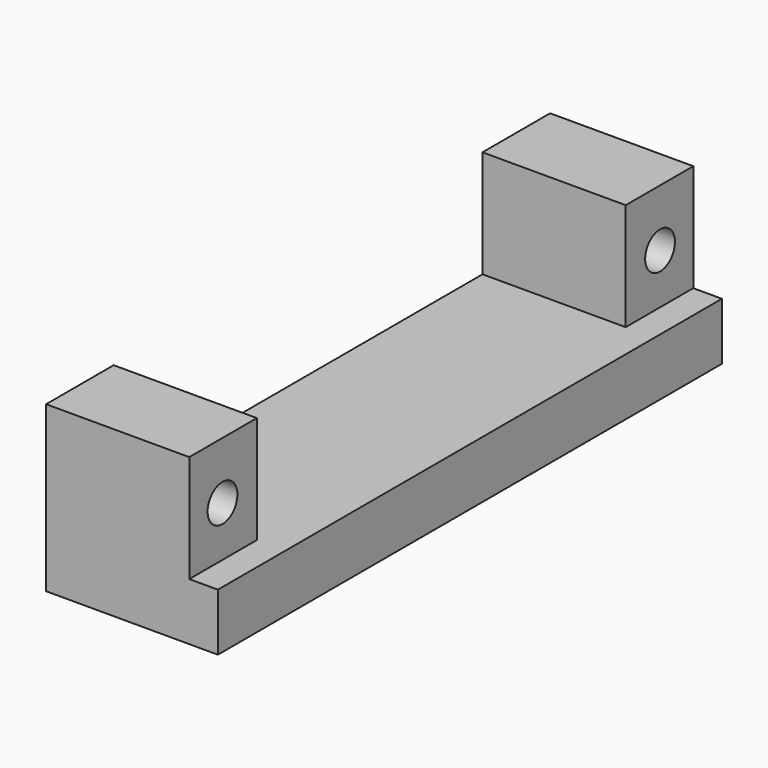
from build123d import *

# Parameters (mm, degrees)
F1_DEPTH = 7.62
F3_R     = 1.651
F4_DEPTH = 25.4
F5_R     = 3.175
F6_DEPTH = 3.81
F7_W     = 55.88
F7_H     = 9.525
F8_DEPTH = 2.54


with BuildPart() as f1:
    # F0 (on Right) → F1 (new body, symmetric)
    with BuildSketch(Plane.YZ):
        Polygon((0, 0), (0, -5.08), (27.94, -5.08), (27.94, 9.525), (20.447, 9.525), (20.447, 0), align=None)
    extrude(amount=F1_DEPTH, both=True)

    # F2: F1 across plane


with BuildPart() as f1_1:
    add(f1.part)
    add(f1.part.mirror(Plane.XZ))

    # F3 (on face) → F4 (cut)
    with BuildSketch(Plane.YZ.offset(7.62)):
        with Locations((-24.257, 4.445)):
            Circle(F3_R)
        with Locations((24.257, 4.445)):
            Circle(F3_R)
    extrude(amount=-F4_DEPTH, mode=Mode.SUBTRACT)

    # F5 (on face) → F6 (cut)
    with BuildSketch(Plane(origin=(0, 0, -5.08), x_dir=(1, 0, 0), z_dir=(0, 0, -1))):
        Circle(F5_R)
    extrude(amount=-F6_DEPTH, mode=Mode.SUBTRACT)

    # F7 (on face) → F8 (cut)
    with BuildSketch(Plane.YZ.offset(7.62)):
        with Locations((0, 4.7625)):
            Rectangle(F7_W, F7_H)
    extrude(amount=-F8_DEPTH, mode=Mode.SUBTRACT)


solid = f1_1.part
